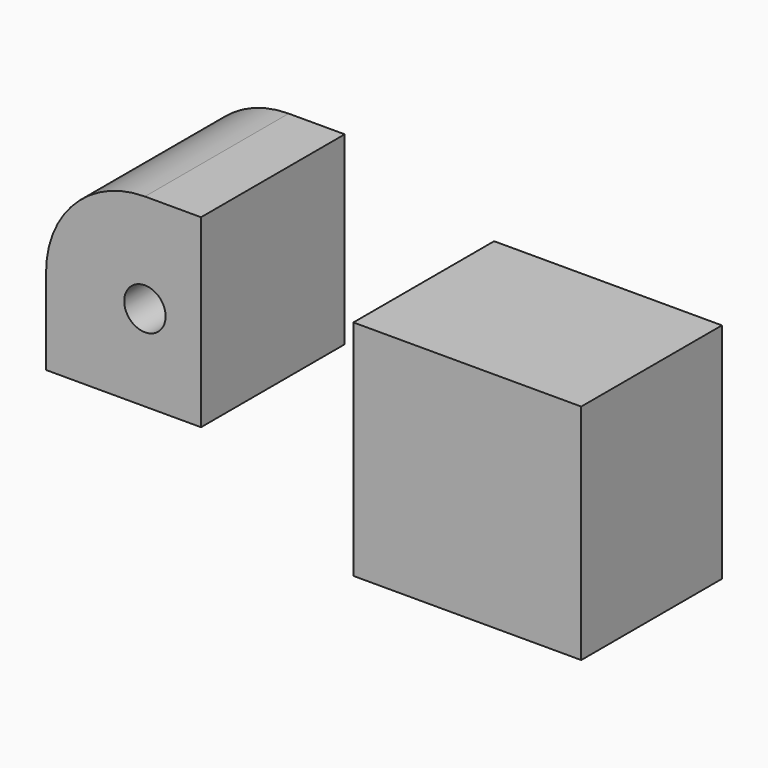
from build123d import *

# Parameters (mm, degrees)
F0_W     = 29.801302
F0_H     = 34.548624
F1_DEPTH = 35.56
F2_R     = 19.009518
F3_R     = 3.979546
F4_DEPTH = 34.548624
F5_W     = 43.813979
F5_H     = 33.828304
F6_DEPTH = 42.926


with BuildPart() as f1:
    # F0 (on Top) → F1 (new body)
    with BuildSketch(Plane.XY):
        with Locations((-87.192077, 21.541626)):
            Rectangle(F0_W, F0_H)
    extrude(amount=F1_DEPTH)

    # F2
    f2_edges = [f1.edges().sort_by_distance(p)[0] for p in [
        (-102.092728, 21.541626, 35.56),
    ]]
    fillet(f2_edges, radius=F2_R)

    # F3 (on face) → F4 (cut, through all)
    with BuildSketch(Plane.XZ.offset(-4.267314)):
        with Locations((-83.08321, 16.550482)):
            Circle(F3_R)
    extrude(amount=-F4_DEPTH, mode=Mode.SUBTRACT)


with BuildPart() as f6:
    # F5 (on Top) → F6 (new body)
    with BuildSketch(Plane.XY):
        with Locations((-2.300883, -2.285134)):
            Rectangle(F5_W, F5_H)
    extrude(amount=F6_DEPTH)


solid = Compound([f1.part, f6.part])
